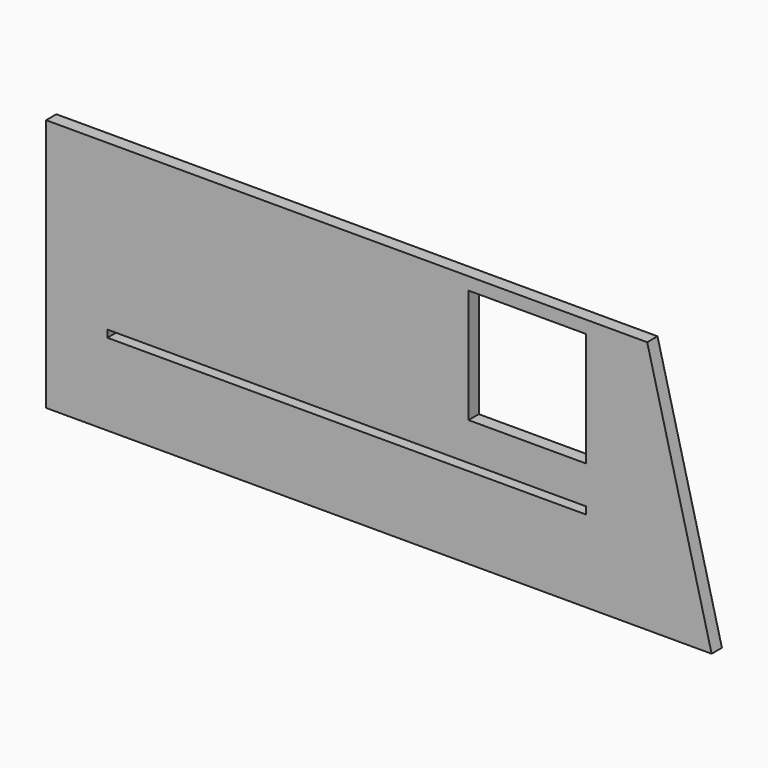
from build123d import *

# Parameters (mm, degrees)
F0_W     = 140
F0_H     = 59
F1_DEPTH = 3
F2_W     = 111.440674
F2_H     = 1.685995
F3_DEPTH = 25
F4_W     = 27.34
F4_H     = 19
F5_DEPTH = 25
F6_R     = 1.5
F7_DEPTH = 2
F8_W     = 27.34
F8_H     = 26.557377
F9_DEPTH = 25


with BuildPart() as f1:
    # F0 (on Front) → F1 (new body)
    with BuildSketch(Plane.XZ):
        Rectangle(F0_W, F0_H)
        Polygon((85, -29.5), (70, 29.5), (70, -29.5), align=None)
    extrude(amount=F1_DEPTH)

    # F2 (on face) → F3 (cut)
    with BuildSketch(Plane.XZ.offset(3)):
        with Locations((0, -9.62422)):
            Rectangle(F2_W, F2_H)
    extrude(amount=-F3_DEPTH, mode=Mode.SUBTRACT)

    # F4 (on face) → F5 (cut)
    with BuildSketch(Plane.XZ.offset(3)):
        with Locations((42.050337, 12.718777)):
            Rectangle(F4_W, F4_H)
    extrude(amount=-F5_DEPTH, mode=Mode.SUBTRACT)

    # F6 (on face) → F7 (cut)
    with BuildSketch(Plane(origin=(0, 0, 0), x_dir=(-1, 0, 0), z_dir=(0, 1, 0))):
        with Locations((60, 14)):
            Circle(F6_R)
        with Locations((-60, 14)):
            Circle(F6_R)
        with Locations((60, -14)):
            Circle(F6_R)
        with Locations((-60, -14)):
            Circle(F6_R)
    extrude(amount=-F7_DEPTH, mode=Mode.SUBTRACT)

    # F8 (on face) → F9 (cut)
    with BuildSketch(Plane.XZ.offset(3)):
        with Locations((42.050337, 13.278688)):
            Rectangle(F8_W, F8_H)
    extrude(amount=-F9_DEPTH, mode=Mode.SUBTRACT)


solid = f1.part
